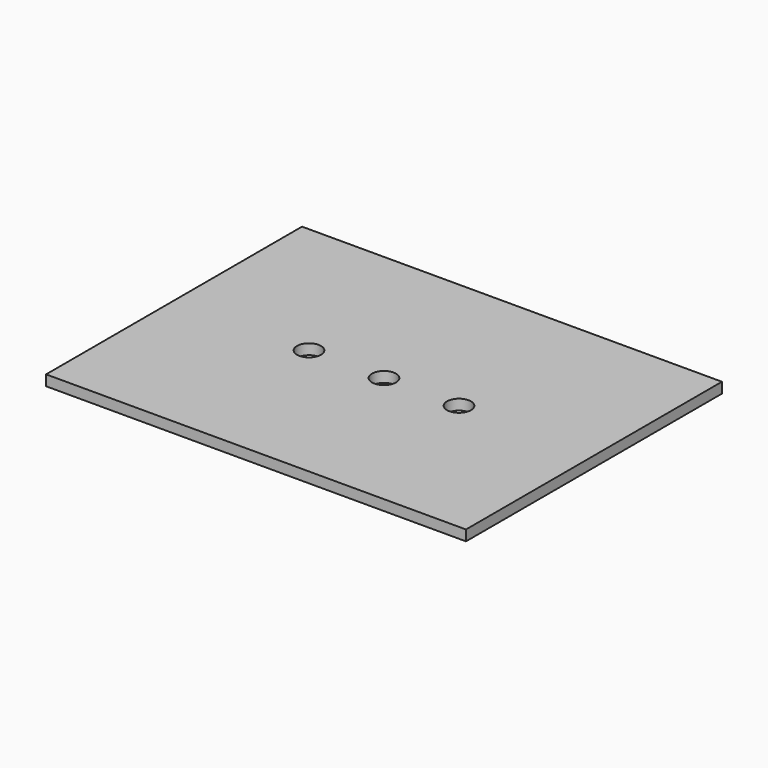
from build123d import *

# Parameters (mm, degrees)
F0_W     = 177.8
F0_H     = 135.466582
F0_R     = 5.08
F1_DEPTH = 4.445


with BuildPart() as f1:
    # F0 (on Top) → F1 (new body)
    with BuildSketch(Plane.XY):
        with Locations((88.9, 67.733291)):
            Rectangle(F0_W, F0_H)
        with Locations((57.15, 67.733291)):
            Circle(F0_R, mode=Mode.SUBTRACT)
        with Locations((88.9, 67.733291)):
            Circle(F0_R, mode=Mode.SUBTRACT)
        with Locations((120.65, 67.733291)):
            Circle(F0_R, mode=Mode.SUBTRACT)
    extrude(amount=F1_DEPTH)


solid = f1.part
